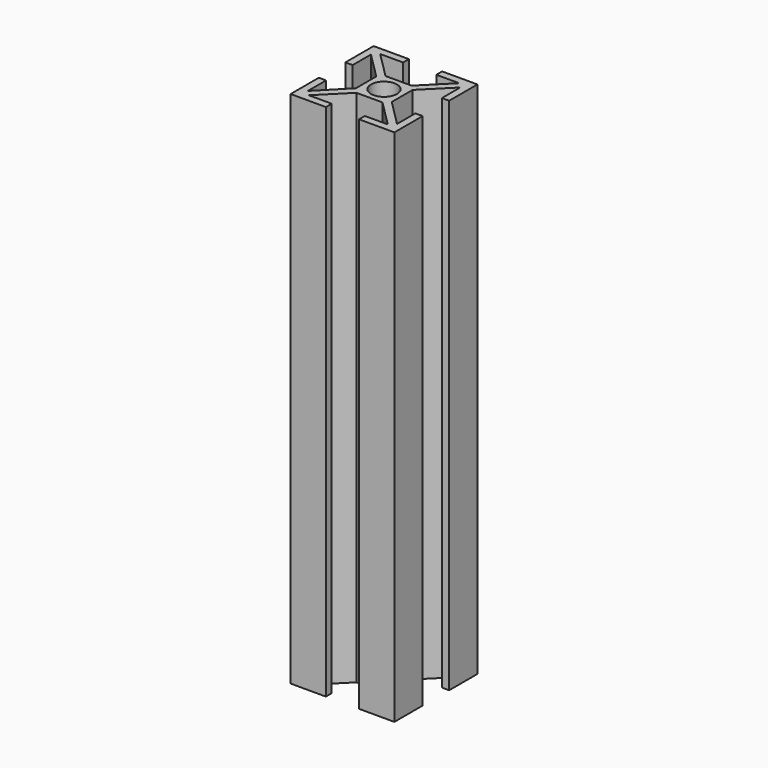
from build123d import *

# Parameters (mm, degrees)
F0_R     = 2.5
F1_DEPTH = 100


with BuildPart() as f1:
    # F0 (on Top) → F1 (new body)
    with BuildSketch(Plane.XY):
        Polygon((6.5, 7.616114), (1.4, 2.389949), (1.4, 6.8), (0, 6.8), (0, 0), (6.8, 0), (6.8, 1.4), (2.389949, 1.4), (7.489949, 6.5), (12.510051, 6.5), (17.610051, 1.4), (13.2, 1.4), (13.2, 0), (20, 0), (20, 6.8), (18.6, 6.8), (18.6, 2.389949), (13.5, 7.489949), (13.5, 12.510051), (18.6, 17.610051), (18.6, 13.2), (20, 13.2), (20, 20), (13.2, 20), (13.2, 18.6), (17.610051, 18.6), (12.510051, 13.5), (7.489949, 13.5), (2.389949, 18.6), (6.8, 18.6), (6.8, 20), (0, 20), (0, 13.2), (1.4, 13.2), (1.4, 17.610051), (6.5, 12.510051), align=None)
        with Locations((10, 10)):
            Circle(F0_R, mode=Mode.SUBTRACT)
    extrude(amount=F1_DEPTH)


solid = f1.part
